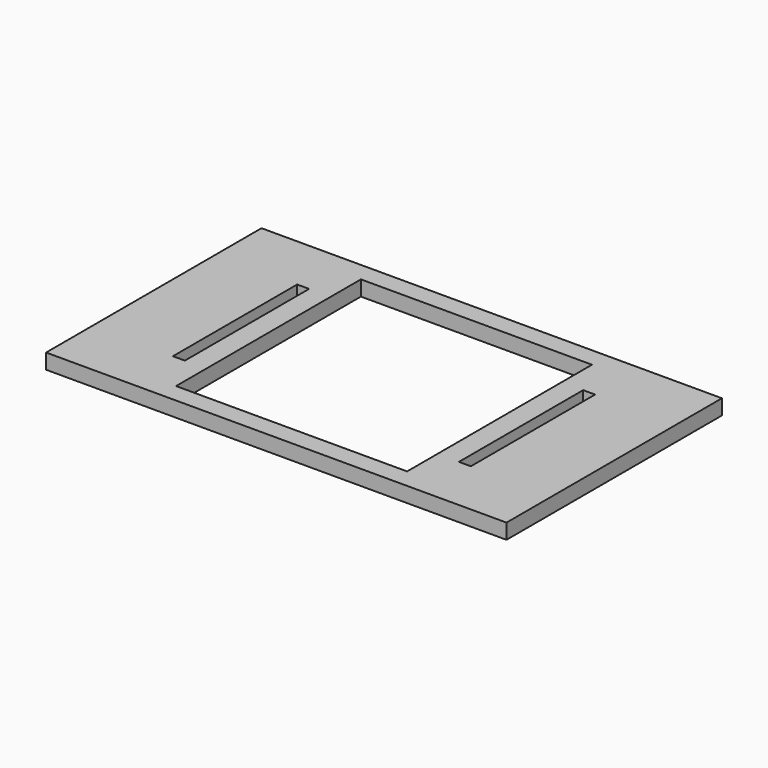
from build123d import *

# Parameters (mm, degrees)
F0_W     = 192.7
F0_H     = 112.7
F1_DEPTH = 6.35
F2_W     = 96.7
F2_H     = 96.7
F2_W_2   = 5
F2_H_2   = 65
F3_DEPTH = 6.351


with BuildPart() as f1:
    # F0 (on Top) → F1 (new body)
    with BuildSketch(Plane.XY):
        Rectangle(F0_W, F0_H)
    extrude(amount=F1_DEPTH)

    # F2 (on face) → F3 (cut, through all)
    with BuildSketch(Plane.XY.offset(6.35)):
        Rectangle(F2_W, F2_H)
        with Locations((-59.85, 0)):
            Rectangle(F2_W_2, F2_H_2)
        with Locations((59.85, 0)):
            Rectangle(F2_W_2, F2_H_2)
    extrude(amount=-F3_DEPTH, mode=Mode.SUBTRACT)


solid = f1.part
